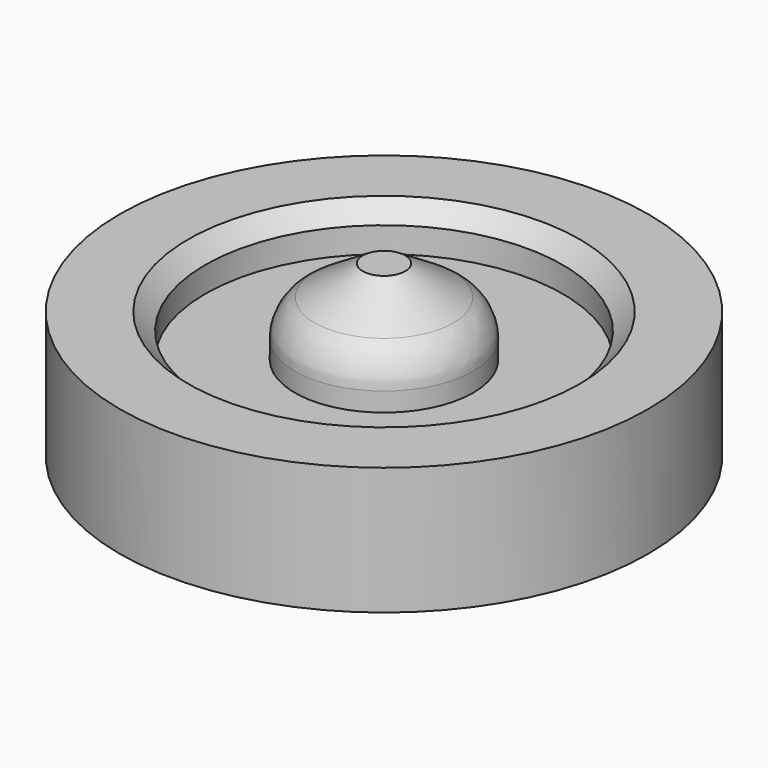
from build123d import *

# Parameters (mm, degrees)
F0_R     = 10.5
F1_DEPTH = 15
F0_R_2   = 21.042
F4_DEPTH = 10
F0_R_3   = 31.082
F5_DEPTH = 15
F6_SIZE  = 2
F7_R     = 5


with BuildPart() as f1:
    # F0 (on Top) → F1 (new body)
    with BuildSketch(Plane.XY):
        Circle(F0_R)
    extrude(amount=F1_DEPTH)

    # F2 (on Front) → F3 (revolve)
    with BuildSketch(Plane.XZ):
        Polygon((0, 15), (10.5, 15), (2.5, 20), (0, 20), align=None)
    revolve(axis=Axis((0, 0, 17.5), (0, 0, 1)))

    # F0 (on Top) → F4 (join)
    with BuildSketch(Plane.XY):
        Circle(F0_R_2)
        Circle(F0_R, mode=Mode.SUBTRACT)
    extrude(amount=F4_DEPTH)

    # F0 (on Top) → F5 (join)
    with BuildSketch(Plane.XY):
        Circle(F0_R_3)
        Circle(F0_R_2, mode=Mode.SUBTRACT)
    extrude(amount=F5_DEPTH)

    # F6
    f6_edges = [f1.edges().sort_by_distance(p)[0] for p in [
        (-21.042, 0, 15),
    ]]
    chamfer(f6_edges, length=F6_SIZE)

    # F7
    f7_edges = [f1.edges().sort_by_distance(p)[0] for p in [
        (-10.5, 0, 15),
    ]]
    fillet(f7_edges, radius=F7_R)


solid = f1.part
